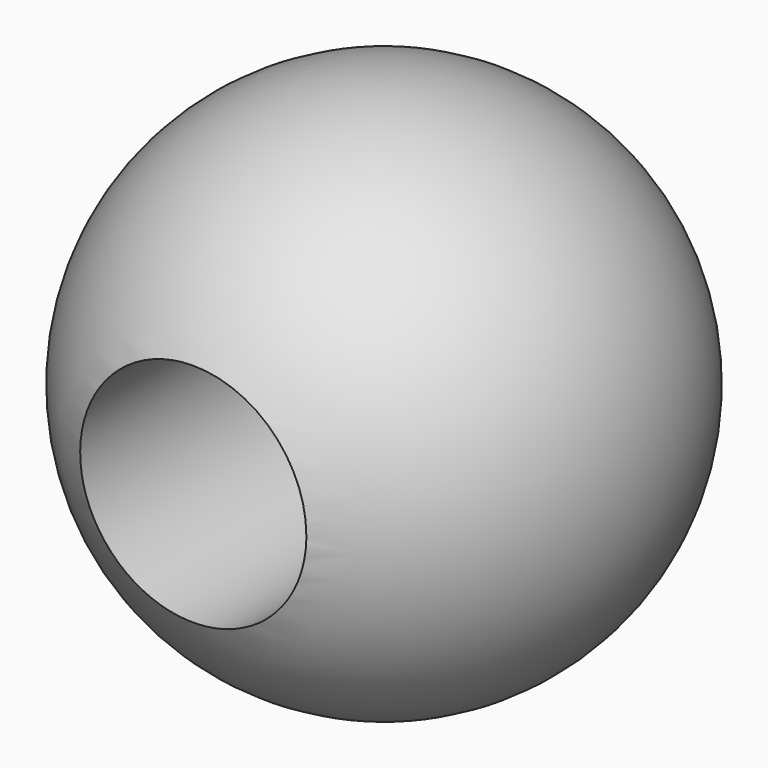
from build123d import *

# Parameters (mm, degrees)
F2_R     = 9.525
F3_DEPTH = 38.1


with BuildPart() as f1:
    # F0 (on Front) → F1 (revolve)
    with BuildSketch(Plane.XZ):
        with BuildLine():
            Line((0, -22.225), (0, 22.225))
            ThreePointArc((0, 22.225), (-22.225, 0), (0, -22.225))
        make_face()
    revolve(axis=Axis((0, 0, 0), (0, 0, -1)))

    # F2 (on Front) → F3 (cut, symmetric)
    with BuildSketch(Plane.XZ):
        Circle(F2_R)
    extrude(amount=F3_DEPTH, both=True, mode=Mode.SUBTRACT)


solid = f1.part
